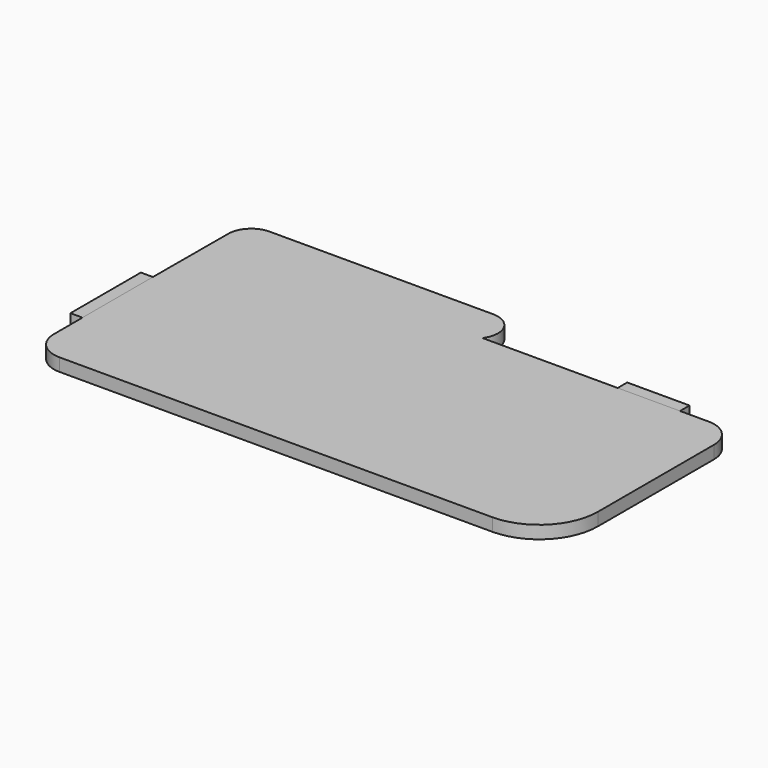
from build123d import *

# Parameters (mm, degrees)
F1_DEPTH = 1.75
F2_W     = 8.5
F2_H     = 1.7
F2_W_2   = 1.7
F2_H_2   = 12
F3_DEPTH = 1.7


with BuildPart() as f1:
    # F0 (on Top) → F1 (new body)
    with BuildSketch(Plane.XY):
        with BuildLine():
            Line((-33.387526, -0.834913), (-33.387526, -17.365021))
            ThreePointArc((-33.387526, -17.365021), (-32.274532, -20.052027), (-29.587526, -21.165021))
            Line((-29.587526, -21.165021), (29.412474, -21.165021))
            ThreePointArc((29.412474, -21.165021), (35.069329, -18.821875), (37.412474, -13.165021))
            Line((37.412474, -13.165021), (37.412474, 6.634979))
            ThreePointArc((37.412474, 6.634979), (36.29948, 9.321985), (33.612474, 10.434979))
            Line((33.612474, 10.434979), (2.811984, 10.434979))
            ThreePointArc((2.811984, 10.434979), (3.068717, 13.715888), (0.262474, 15.434979))
            Line((0.262474, 15.434979), (-29.913352, 15.434979))
            ThreePointArc((-29.913352, 15.434979), (-32.318425, 14.626695), (-33.347373, 12.307435))
            Line((-33.347373, 12.307435), (-33.387526, -0.834913))
        make_face()
        with BuildLine():
            Line((2.612474, 9.634979), (33.612474, 9.634979))
            ThreePointArc((33.612474, 9.634979), (35.733795, 8.756299), (36.612474, 6.634979))
            Line((36.612474, 6.634979), (36.612474, -13.165021))
            ThreePointArc((36.612474, -13.165021), (34.503643, -18.25619), (29.412474, -20.365021))
            Line((29.412474, -20.365021), (-29.587526, -20.365021))
            ThreePointArc((-29.587526, -20.365021), (-31.708846, -19.486341), (-32.587526, -17.365021))
            Line((-32.587526, -17.365021), (-32.587526, -0.836135))
            Line((-32.587526, -0.836135), (-32.547377, 12.304991))
            ThreePointArc((-32.547377, 12.304991), (-31.767323, 14.046468), (-29.952142, 14.634979))
            Line((-29.952142, 14.634979), (0.262474, 14.634979))
            ThreePointArc((0.262474, 14.634979), (1.924175, 13.94668), (2.612474, 12.284979))
            Line((2.612474, 12.284979), (2.612474, 9.634979))
        make_face(mode=Mode.SUBTRACT)
        with BuildLine():
            ThreePointArc((36.612474, 6.634979), (35.733795, 8.756299), (33.612474, 9.634979))
            Line((33.612474, 9.634979), (2.612474, 9.634979))
            Line((2.612474, 9.634979), (2.612474, 12.284979))
            ThreePointArc((2.612474, 12.284979), (1.924175, 13.94668), (0.262474, 14.634979))
            Line((0.262474, 14.634979), (-29.952142, 14.634979))
            ThreePointArc((-29.952142, 14.634979), (-31.767323, 14.046468), (-32.547377, 12.304991))
            Line((-32.547377, 12.304991), (-32.587526, -0.836135))
            Line((-32.587526, -0.836135), (-32.587526, -17.365021))
            ThreePointArc((-32.587526, -17.365021), (-31.708846, -19.486341), (-29.587526, -20.365021))
            Line((-29.587526, -20.365021), (29.412474, -20.365021))
            ThreePointArc((29.412474, -20.365021), (34.503643, -18.25619), (36.612474, -13.165021))
            Line((36.612474, -13.165021), (36.612474, 6.634979))
        make_face()
    extrude(amount=F1_DEPTH)

    # F2 (on face) → F3 (join, symmetric)
    with BuildSketch(Plane(origin=(0, 0, 0), x_dir=(1, 0, 0), z_dir=(0, 0, -1))):
        with Locations((25.412474, -11.284979)):
            Rectangle(F2_W, F2_H)
        with Locations((-34.237526, 6.415021)):
            Rectangle(F2_W_2, F2_H_2)
    extrude(amount=F3_DEPTH, both=True)


solid = f1.part
